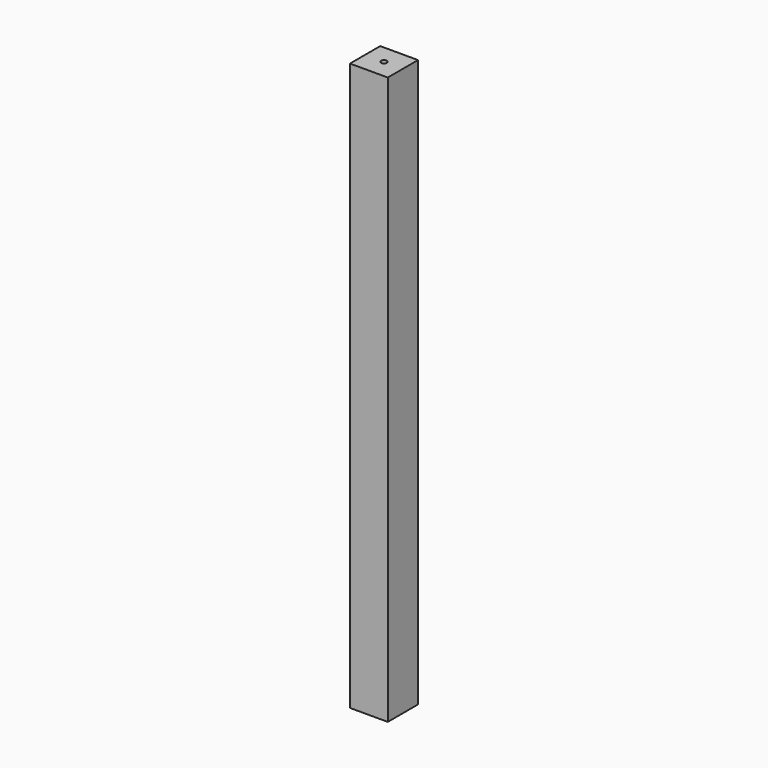
from build123d import *

# Parameters (mm, degrees)
F0_W     = 40
F0_H     = 40
F1_DEPTH = 600
F2_R     = 3
F3_DEPTH = 10
F4_R     = 3
F5_DEPTH = 10
F6_R     = 3
F7_DEPTH = 10


with BuildPart() as f1:
    # F0 (on Top) → F1 (new body)
    with BuildSketch(Plane.XY):
        with Locations((20, 20)):
            Rectangle(F0_W, F0_H)
    extrude(amount=F1_DEPTH)

    # F2 (on face) → F3 (cut)
    with BuildSketch(Plane(origin=(0, 0, 0), x_dir=(0, -1, 0), z_dir=(-1, 0, 0))):
        with Locations((-20, 591)):
            Circle(F2_R)
    extrude(amount=-F3_DEPTH, mode=Mode.SUBTRACT)

    # F4 (on face) → F5 (cut)
    with BuildSketch(Plane(origin=(0, 40, 0), x_dir=(-1, 0, 0), z_dir=(0, 1, 0))):
        with Locations((-20, 591)):
            Circle(F4_R)
    extrude(amount=-F5_DEPTH, mode=Mode.SUBTRACT)

    # F6 (on face) → F7 (cut)
    with BuildSketch(Plane.XY.offset(600)):
        with Locations((20, 20)):
            Circle(F6_R)
    extrude(amount=-F7_DEPTH, mode=Mode.SUBTRACT)


solid = f1.part
